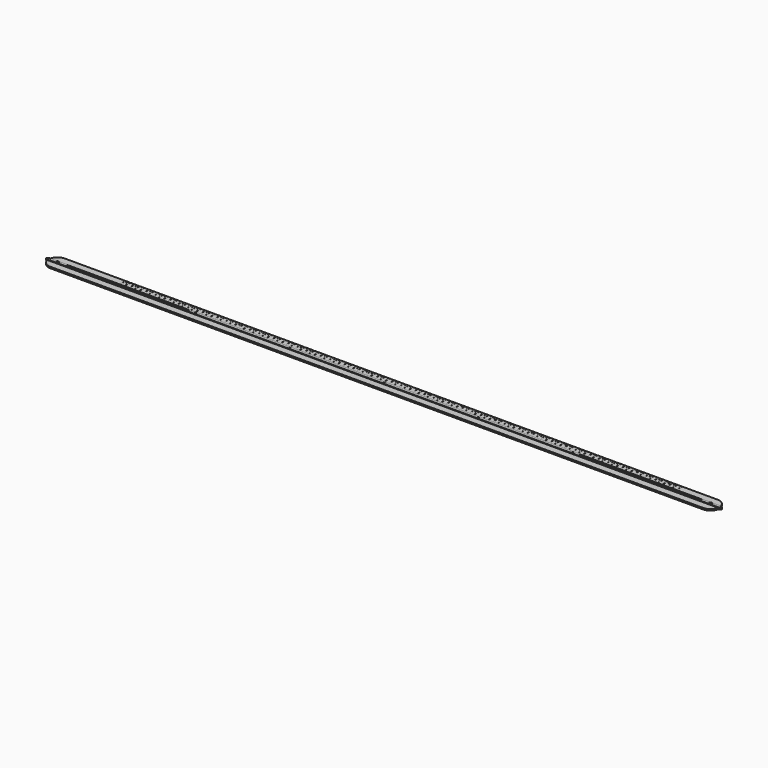
from build123d import *

# Parameters (mm, degrees)
F1_DEPTH       = 1280
F1_DEPTH_BACK  = 154
F3_R           = 3
F4_DEPTH       = 25
F6_DEPTH       = 25
F8_DEPTH       = 25
F9_R           = 1.5
F10_DEPTH      = 25
F12_DEPTH      = 0.25
F13_R          = 3
F14_DEPTH      = 3
F14_DEPTH_BACK = 2
F16_DEPTH      = 0.25


with BuildPart() as f1:
    # F0 (on Right) → F1 (new body, two sides)
    with BuildSketch(Plane.YZ) as f1_sk:
        Polygon((-19, 3), (-19, 0), (19, 0), (19, 3), (3.25, 3), (3, 4), (-3, 4), (-3.25, 3), align=None)
    extrude(amount=F1_DEPTH)
    extrude(f1_sk.sketch, amount=-F1_DEPTH_BACK)

    # F3 (on Top) → F4 (cut)
    with BuildSketch(Plane.XY):
        with Locations((-129, 0)):
            Circle(F3_R)
        with Locations((1255, 0)):
            Circle(F3_R)
    extrude(amount=F4_DEPTH, mode=Mode.SUBTRACT)

    # F5 (on Top) → F6 (cut)
    with BuildSketch(Plane.XY):
        with BuildLine():
            ThreePointArc((-108, 2), (-110, 0), (-108, -2))
            Line((-108, -2), (147, -2))
            ThreePointArc((147, -2), (149, 0), (147, 2))
            Line((147, 2), (-108, 2))
        make_face()
        with BuildLine():
            Line((979, -2), (1234, -2))
            ThreePointArc((1234, -2), (1236, 0), (1234, 2))
            Line((1234, 2), (979, 2))
            ThreePointArc((979, 2), (977, 0), (979, -2))
        make_face()
    extrude(amount=F6_DEPTH, mode=Mode.SUBTRACT)

    # F7 (on Top) → F8 (cut)
    with BuildSketch(Plane.XY):
        with BuildLine():
            ThreePointArc((-147.541794, 4.147515), (-140.878493, 14.829073), (-129, 19))
            Line((-129, 19), (-129, 22.257365))
            Line((-129, 22.257365), (-158.983856, 22.257365))
            Line((-158.983856, 22.257365), (-158.983856, -20.880738))
            Line((-158.983856, -20.880738), (-129, -20.880738))
            Line((-129, -20.880738), (-129, -19))
            ThreePointArc((-129, -19), (-140.878493, -14.829073), (-147.541794, -4.147515))
            ThreePointArc((-147.541794, -4.147515), (-147.909477, -3.363163), (-148.574334, -2.807858))
            Line((-148.574334, -2.807858), (-152.283875, -0.888119))
            ThreePointArc((-152.283875, -0.888119), (-152.824261, 0), (-152.283875, 0.888119))
            Line((-152.283875, 0.888119), (-148.574334, 2.807858))
            ThreePointArc((-148.574334, 2.807858), (-147.909477, 3.363163), (-147.541794, 4.147515))
        make_face()
        with BuildLine():
            Line((1274.574334, 2.807858), (1278.283875, 0.888119))
            ThreePointArc((1278.283875, 0.888119), (1278.824261, 0), (1278.283875, -0.888119))
            Line((1278.283875, -0.888119), (1274.574334, -2.807858))
            ThreePointArc((1274.574334, -2.807858), (1273.909477, -3.363163), (1273.541794, -4.147515))
            ThreePointArc((1273.541794, -4.147515), (1266.878493, -14.829073), (1255, -19))
            Line((1255, -19), (1255, -20.880738))
            Line((1255, -20.880738), (1284.983856, -20.880738))
            Line((1284.983856, -20.880738), (1284.983856, 22.257365))
            Line((1284.983856, 22.257365), (1255, 22.257365))
            Line((1255, 22.257365), (1255, 19))
            ThreePointArc((1255, 19), (1266.878493, 14.829073), (1273.541794, 4.147515))
            ThreePointArc((1273.541794, 4.147515), (1273.909477, 3.363163), (1274.574334, 2.807858))
        make_face()
    extrude(amount=F8_DEPTH, mode=Mode.SUBTRACT)

    # F9 (on Top) → F10 (cut)
    with BuildSketch(Plane.XY):
        with Locations((563, 0)):
            Circle(F9_R)
        with Locations((763, 0)):
            Circle(F9_R)
        with Locations((963, 0)):
            Circle(F9_R)
        with Locations((363, 0)):
            Circle(F9_R)
        with Locations((163, 0)):
            Circle(F9_R)
    extrude(amount=F10_DEPTH, mode=Mode.SUBTRACT)

    # F11 (on face) → F12 (cut)
    with BuildSketch(Plane.XY.offset(3)):
        with BuildLine():
            ThreePointArc((0.25, 19), (0, 19.25), (-0.25, 19))
            Line((-0.25, 19), (-0.25, 7))
            ThreePointArc((-0.25, 7), (0, 6.75), (0.25, 7))
            Line((0.25, 7), (0.25, 19))
        make_face()
        with BuildLine():
            Line((10.25, 7), (10.25, 19))
            ThreePointArc((10.25, 19), (10, 19.25), (9.75, 19))
            Line((9.75, 19), (9.75, 7))
            ThreePointArc((9.75, 7), (10, 6.75), (10.25, 7))
        make_face()
        with BuildLine():
            Line((20.25, 7), (20.25, 19))
            ThreePointArc((20.25, 19), (20, 19.25), (19.75, 19))
            Line((19.75, 19), (19.75, 7))
            ThreePointArc((19.75, 7), (20, 6.75), (20.25, 7))
        make_face()
        with BuildLine():
            Line((30.25, 7), (30.25, 19))
            ThreePointArc((30.25, 19), (30, 19.25), (29.75, 19))
            Line((29.75, 19), (29.75, 7))
            ThreePointArc((29.75, 7), (30, 6.75), (30.25, 7))
        make_face()
        with BuildLine():
            Line((40.25, 7), (40.25, 19))
            ThreePointArc((40.25, 19), (40, 19.25), (39.75, 19))
            Line((39.75, 19), (39.75, 7))
            ThreePointArc((39.75, 7), (40, 6.75), (40.25, 7))
        make_face()
        with BuildLine():
            Line((50.25, 7), (50.25, 19))
            ThreePointArc((50.25, 19), (50, 19.25), (49.75, 19))
            Line((49.75, 19), (49.75, 7))
            ThreePointArc((49.75, 7), (50, 6.75), (50.25, 7))
        make_face()
        with BuildLine():
            Line((60.25, 7), (60.25, 19))
            ThreePointArc((60.25, 19), (60, 19.25), (59.75, 19))
            Line((59.75, 19), (59.75, 7))
            ThreePointArc((59.75, 7), (60, 6.75), (60.25, 7))
        make_face()
        with BuildLine():
            Line((70.25, 7), (70.25, 19))
            ThreePointArc((70.25, 19), (70, 19.25), (69.75, 19))
            Line((69.75, 19), (69.75, 7))
            ThreePointArc((69.75, 7), (70, 6.75), (70.25, 7))
        make_face()
        with BuildLine():
            Line((80.25, 7), (80.25, 19))
            ThreePointArc((80.25, 19), (80, 19.25), (79.75, 19))
            Line((79.75, 19), (79.75, 7))
            ThreePointArc((79.75, 7), (80, 6.75), (80.25, 7))
        make_face()
        with BuildLine():
            Line((90.25, 7), (90.25, 19))
            ThreePointArc((90.25, 19), (90, 19.25), (89.75, 19))
            Line((89.75, 19), (89.75, 7))
            ThreePointArc((89.75, 7), (90, 6.75), (90.25, 7))
        make_face()
        with BuildLine():
            Line((100.25, 7), (100.25, 19))
            ThreePointArc((100.25, 19), (100, 19.25), (99.75, 19))
            Line((99.75, 19), (99.75, 7))
            ThreePointArc((99.75, 7), (100, 6.75), (100.25, 7))
        make_face()
        with BuildLine():
            Line((110.25, 7), (110.25, 19))
            ThreePointArc((110.25, 19), (110, 19.25), (109.75, 19))
            Line((109.75, 19), (109.75, 7))
            ThreePointArc((109.75, 7), (110, 6.75), (110.25, 7))
        make_face()
        with BuildLine():
            Line((120.25, 7), (120.25, 19))
            ThreePointArc((120.25, 19), (120, 19.25), (119.75, 19))
            Line((119.75, 19), (119.75, 7))
            ThreePointArc((119.75, 7), (120, 6.75), (120.25, 7))
        make_face()
        with BuildLine():
            Line((130.25, 7), (130.25, 19))
            ThreePointArc((130.25, 19), (130, 19.25), (129.75, 19))
            Line((129.75, 19), (129.75, 7))
            ThreePointArc((129.75, 7), (130, 6.75), (130.25, 7))
        make_face()
        with BuildLine():
            Line((140.25, 7), (140.25, 19))
            ThreePointArc((140.25, 19), (140, 19.25), (139.75, 19))
            Line((139.75, 19), (139.75, 7))
            ThreePointArc((139.75, 7), (140, 6.75), (140.25, 7))
        make_face()
        with BuildLine():
            Line((150.25, 7), (150.25, 19))
            ThreePointArc((150.25, 19), (150, 19.25), (149.75, 19))
            Line((149.75, 19), (149.75, 7))
            ThreePointArc((149.75, 7), (150, 6.75), (150.25, 7))
        make_face()
        with BuildLine():
            Line((160.25, 7), (160.25, 19))
            ThreePointArc((160.25, 19), (160, 19.25), (159.75, 19))
            Line((159.75, 19), (159.75, 7))
            ThreePointArc((159.75, 7), (160, 6.75), (160.25, 7))
        make_face()
        with BuildLine():
            Line((170.25, 7), (170.25, 19))
            ThreePointArc((170.25, 19), (170, 19.25), (169.75, 19))
            Line((169.75, 19), (169.75, 7))
            ThreePointArc((169.75, 7), (170, 6.75), (170.25, 7))
        make_face()
        with BuildLine():
            Line((180.25, 7), (180.25, 19))
            ThreePointArc((180.25, 19), (180, 19.25), (179.75, 19))
            Line((179.75, 19), (179.75, 7))
            ThreePointArc((179.75, 7), (180, 6.75), (180.25, 7))
        make_face()
        with BuildLine():
            Line((190.25, 7), (190.25, 19))
            ThreePointArc((190.25, 19), (190, 19.25), (189.75, 19))
            Line((189.75, 19), (189.75, 7))
            ThreePointArc((189.75, 7), (190, 6.75), (190.25, 7))
        make_face()
        with BuildLine():
            Line((200.25, 7), (200.25, 19))
            ThreePointArc((200.25, 19), (200, 19.25), (199.75, 19))
            Line((199.75, 19), (199.75, 7))
            ThreePointArc((199.75, 7), (200, 6.75), (200.25, 7))
        make_face()
        with BuildLine():
            Line((210.25, 7), (210.25, 19))
            ThreePointArc((210.25, 19), (210, 19.25), (209.75, 19))
            Line((209.75, 19), (209.75, 7))
            ThreePointArc((209.75, 7), (210, 6.75), (210.25, 7))
        make_face()
        with BuildLine():
            Line((220.25, 7), (220.25, 19))
            ThreePointArc((220.25, 19), (220, 19.25), (219.75, 19))
            Line((219.75, 19), (219.75, 7))
            ThreePointArc((219.75, 7), (220, 6.75), (220.25, 7))
        make_face()
        with BuildLine():
            Line((230.25, 7), (230.25, 19))
            ThreePointArc((230.25, 19), (230, 19.25), (229.75, 19))
            Line((229.75, 19), (229.75, 7))
            ThreePointArc((229.75, 7), (230, 6.75), (230.25, 7))
        make_face()
        with BuildLine():
            Line((240.25, 7), (240.25, 19))
            ThreePointArc((240.25, 19), (240, 19.25), (239.75, 19))
            Line((239.75, 19), (239.75, 7))
            ThreePointArc((239.75, 7), (240, 6.75), (240.25, 7))
        make_face()
        with BuildLine():
            Line((250.25, 7), (250.25, 19))
            ThreePointArc((250.25, 19), (250, 19.25), (249.75, 19))
            Line((249.75, 19), (249.75, 7))
            ThreePointArc((249.75, 7), (250, 6.75), (250.25, 7))
        make_face()
        with BuildLine():
            Line((260.25, 7), (260.25, 19))
            ThreePointArc((260.25, 19), (260, 19.25), (259.75, 19))
            Line((259.75, 19), (259.75, 7))
            ThreePointArc((259.75, 7), (260, 6.75), (260.25, 7))
        make_face()
        with BuildLine():
            Line((270.25, 7), (270.25, 19))
            ThreePointArc((270.25, 19), (270, 19.25), (269.75, 19))
            Line((269.75, 19), (269.75, 7))
            ThreePointArc((269.75, 7), (270, 6.75), (270.25, 7))
        make_face()
        with BuildLine():
            Line((280.25, 7), (280.25, 19))
            ThreePointArc((280.25, 19), (280, 19.25), (279.75, 19))
            Line((279.75, 19), (279.75, 7))
            ThreePointArc((279.75, 7), (280, 6.75), (280.25, 7))
        make_face()
        with BuildLine():
            Line((290.25, 7), (290.25, 19))
            ThreePointArc((290.25, 19), (290, 19.25), (289.75, 19))
            Line((289.75, 19), (289.75, 7))
            ThreePointArc((289.75, 7), (290, 6.75), (290.25, 7))
        make_face()
        with BuildLine():
            Line((300.25, 7), (300.25, 19))
            ThreePointArc((300.25, 19), (300, 19.25), (299.75, 19))
            Line((299.75, 19), (299.75, 7))
            ThreePointArc((299.75, 7), (300, 6.75), (300.25, 7))
        make_face()
        with BuildLine():
            Line((310.25, 7), (310.25, 19))
            ThreePointArc((310.25, 19), (310, 19.25), (309.75, 19))
            Line((309.75, 19), (309.75, 7))
            ThreePointArc((309.75, 7), (310, 6.75), (310.25, 7))
        make_face()
        with BuildLine():
            Line((320.25, 7), (320.25, 19))
            ThreePointArc((320.25, 19), (320, 19.25), (319.75, 19))
            Line((319.75, 19), (319.75, 7))
            ThreePointArc((319.75, 7), (320, 6.75), (320.25, 7))
        make_face()
        with BuildLine():
            Line((330.25, 7), (330.25, 19))
            ThreePointArc((330.25, 19), (330, 19.25), (329.75, 19))
            Line((329.75, 19), (329.75, 7))
            ThreePointArc((329.75, 7), (330, 6.75), (330.25, 7))
        make_face()
        with BuildLine():
            Line((340.25, 7), (340.25, 19))
            ThreePointArc((340.25, 19), (340, 19.25), (339.75, 19))
            Line((339.75, 19), (339.75, 7))
            ThreePointArc((339.75, 7), (340, 6.75), (340.25, 7))
        make_face()
        with BuildLine():
            Line((350.25, 7), (350.25, 19))
            ThreePointArc((350.25, 19), (350, 19.25), (349.75, 19))
            Line((349.75, 19), (349.75, 7))
            ThreePointArc((349.75, 7), (350, 6.75), (350.25, 7))
        make_face()
        with BuildLine():
            Line((360.25, 7), (360.25, 19))
            ThreePointArc((360.25, 19), (360, 19.25), (359.75, 19))
            Line((359.75, 19), (359.75, 7))
            ThreePointArc((359.75, 7), (360, 6.75), (360.25, 7))
        make_face()
        with BuildLine():
            Line((370.25, 7), (370.25, 19))
            ThreePointArc((370.25, 19), (370, 19.25), (369.75, 19))
            Line((369.75, 19), (369.75, 7))
            ThreePointArc((369.75, 7), (370, 6.75), (370.25, 7))
        make_face()
        with BuildLine():
            Line((380.25, 7), (380.25, 19))
            ThreePointArc((380.25, 19), (380, 19.25), (379.75, 19))
            Line((379.75, 19), (379.75, 7))
            ThreePointArc((379.75, 7), (380, 6.75), (380.25, 7))
        make_face()
        with BuildLine():
            Line((390.25, 7), (390.25, 19))
            ThreePointArc((390.25, 19), (390, 19.25), (389.75, 19))
            Line((389.75, 19), (389.75, 7))
            ThreePointArc((389.75, 7), (390, 6.75), (390.25, 7))
        make_face()
        with BuildLine():
            Line((400.25, 7), (400.25, 19))
            ThreePointArc((400.25, 19), (400, 19.25), (399.75, 19))
            Line((399.75, 19), (399.75, 7))
            ThreePointArc((399.75, 7), (400, 6.75), (400.25, 7))
        make_face()
        with BuildLine():
            Line((410.25, 7), (410.25, 19))
            ThreePointArc((410.25, 19), (410, 19.25), (409.75, 19))
            Line((409.75, 19), (409.75, 7))
            ThreePointArc((409.75, 7), (410, 6.75), (410.25, 7))
        make_face()
        with BuildLine():
            Line((420.25, 7), (420.25, 19))
            ThreePointArc((420.25, 19), (420, 19.25), (419.75, 19))
            Line((419.75, 19), (419.75, 7))
            ThreePointArc((419.75, 7), (420, 6.75), (420.25, 7))
        make_face()
        with BuildLine():
            Line((430.25, 7), (430.25, 19))
            ThreePointArc((430.25, 19), (430, 19.25), (429.75, 19))
            Line((429.75, 19), (429.75, 7))
            ThreePointArc((429.75, 7), (430, 6.75), (430.25, 7))
        make_face()
        with BuildLine():
            Line((440.25, 7), (440.25, 19))
            ThreePointArc((440.25, 19), (440, 19.25), (439.75, 19))
            Line((439.75, 19), (439.75, 7))
            ThreePointArc((439.75, 7), (440, 6.75), (440.25, 7))
        make_face()
        with BuildLine():
            Line((450.25, 7), (450.25, 19))
            ThreePointArc((450.25, 19), (450, 19.25), (449.75, 19))
            Line((449.75, 19), (449.75, 7))
            ThreePointArc((449.75, 7), (450, 6.75), (450.25, 7))
        make_face()
        with BuildLine():
            Line((460.25, 7), (460.25, 19))
            ThreePointArc((460.25, 19), (460, 19.25), (459.75, 19))
            Line((459.75, 19), (459.75, 7))
            ThreePointArc((459.75, 7), (460, 6.75), (460.25, 7))
        make_face()
        with BuildLine():
            Line((470.25, 7), (470.25, 19))
            ThreePointArc((470.25, 19), (470, 19.25), (469.75, 19))
            Line((469.75, 19), (469.75, 7))
            ThreePointArc((469.75, 7), (470, 6.75), (470.25, 7))
        make_face()
        with BuildLine():
            Line((480.25, 7), (480.25, 19))
            ThreePointArc((480.25, 19), (480, 19.25), (479.75, 19))
            Line((479.75, 19), (479.75, 7))
            ThreePointArc((479.75, 7), (480, 6.75), (480.25, 7))
        make_face()
        with BuildLine():
            Line((490.25, 7), (490.25, 19))
            ThreePointArc((490.25, 19), (490, 19.25), (489.75, 19))
            Line((489.75, 19), (489.75, 7))
            ThreePointArc((489.75, 7), (490, 6.75), (490.25, 7))
        make_face()
        with BuildLine():
            Line((500.25, 7), (500.25, 19))
            ThreePointArc((500.25, 19), (500, 19.25), (499.75, 19))
            Line((499.75, 19), (499.75, 7))
            ThreePointArc((499.75, 7), (500, 6.75), (500.25, 7))
        make_face()
        with BuildLine():
            Line((510.25, 7), (510.25, 19))
            ThreePointArc((510.25, 19), (510, 19.25), (509.75, 19))
            Line((509.75, 19), (509.75, 7))
            ThreePointArc((509.75, 7), (510, 6.75), (510.25, 7))
        make_face()
        with BuildLine():
            Line((520.25, 7), (520.25, 19))
            ThreePointArc((520.25, 19), (520, 19.25), (519.75, 19))
            Line((519.75, 19), (519.75, 7))
            ThreePointArc((519.75, 7), (520, 6.75), (520.25, 7))
        make_face()
        with BuildLine():
            Line((530.25, 7), (530.25, 19))
            ThreePointArc((530.25, 19), (530, 19.25), (529.75, 19))
            Line((529.75, 19), (529.75, 7))
            ThreePointArc((529.75, 7), (530, 6.75), (530.25, 7))
        make_face()
        with BuildLine():
            Line((540.25, 7), (540.25, 19))
            ThreePointArc((540.25, 19), (540, 19.25), (539.75, 19))
            Line((539.75, 19), (539.75, 7))
            ThreePointArc((539.75, 7), (540, 6.75), (540.25, 7))
        make_face()
        with BuildLine():
            Line((550.25, 7), (550.25, 19))
            ThreePointArc((550.25, 19), (550, 19.25), (549.75, 19))
            Line((549.75, 19), (549.75, 7))
            ThreePointArc((549.75, 7), (550, 6.75), (550.25, 7))
        make_face()
        with BuildLine():
            Line((560.25, 7), (560.25, 19))
            ThreePointArc((560.25, 19), (560, 19.25), (559.75, 19))
            Line((559.75, 19), (559.75, 7))
            ThreePointArc((559.75, 7), (560, 6.75), (560.25, 7))
        make_face()
        with BuildLine():
            Line((570.25, 7), (570.25, 19))
            ThreePointArc((570.25, 19), (570, 19.25), (569.75, 19))
            Line((569.75, 19), (569.75, 7))
            ThreePointArc((569.75, 7), (570, 6.75), (570.25, 7))
        make_face()
        with BuildLine():
            Line((580.25, 7), (580.25, 19))
            ThreePointArc((580.25, 19), (580, 19.25), (579.75, 19))
            Line((579.75, 19), (579.75, 7))
            ThreePointArc((579.75, 7), (580, 6.75), (580.25, 7))
        make_face()
        with BuildLine():
            Line((590.25, 7), (590.25, 19))
            ThreePointArc((590.25, 19), (590, 19.25), (589.75, 19))
            Line((589.75, 19), (589.75, 7))
            ThreePointArc((589.75, 7), (590, 6.75), (590.25, 7))
        make_face()
        with BuildLine():
            Line((600.25, 7), (600.25, 19))
            ThreePointArc((600.25, 19), (600, 19.25), (599.75, 19))
            Line((599.75, 19), (599.75, 7))
            ThreePointArc((599.75, 7), (600, 6.75), (600.25, 7))
        make_face()
        with BuildLine():
            Line((610.25, 7), (610.25, 19))
            ThreePointArc((610.25, 19), (610, 19.25), (609.75, 19))
            Line((609.75, 19), (609.75, 7))
            ThreePointArc((609.75, 7), (610, 6.75), (610.25, 7))
        make_face()
        with BuildLine():
            Line((620.25, 7), (620.25, 19))
            ThreePointArc((620.25, 19), (620, 19.25), (619.75, 19))
            Line((619.75, 19), (619.75, 7))
            ThreePointArc((619.75, 7), (620, 6.75), (620.25, 7))
        make_face()
        with BuildLine():
            Line((630.25, 7), (630.25, 19))
            ThreePointArc((630.25, 19), (630, 19.25), (629.75, 19))
            Line((629.75, 19), (629.75, 7))
            ThreePointArc((629.75, 7), (630, 6.75), (630.25, 7))
        make_face()
        with BuildLine():
            Line((640.25, 7), (640.25, 19))
            ThreePointArc((640.25, 19), (640, 19.25), (639.75, 19))
            Line((639.75, 19), (639.75, 7))
            ThreePointArc((639.75, 7), (640, 6.75), (640.25, 7))
        make_face()
        with BuildLine():
            Line((650.25, 7), (650.25, 19))
            ThreePointArc((650.25, 19), (650, 19.25), (649.75, 19))
            Line((649.75, 19), (649.75, 7))
            ThreePointArc((649.75, 7), (650, 6.75), (650.25, 7))
        make_face()
        with BuildLine():
            Line((660.25, 7), (660.25, 19))
            ThreePointArc((660.25, 19), (660, 19.25), (659.75, 19))
            Line((659.75, 19), (659.75, 7))
            ThreePointArc((659.75, 7), (660, 6.75), (660.25, 7))
        make_face()
        with BuildLine():
            Line((670.25, 7), (670.25, 19))
            ThreePointArc((670.25, 19), (670, 19.25), (669.75, 19))
            Line((669.75, 19), (669.75, 7))
            ThreePointArc((669.75, 7), (670, 6.75), (670.25, 7))
        make_face()
        with BuildLine():
            Line((680.25, 7), (680.25, 19))
            ThreePointArc((680.25, 19), (680, 19.25), (679.75, 19))
            Line((679.75, 19), (679.75, 7))
            ThreePointArc((679.75, 7), (680, 6.75), (680.25, 7))
        make_face()
        with BuildLine():
            Line((690.25, 7), (690.25, 19))
            ThreePointArc((690.25, 19), (690, 19.25), (689.75, 19))
            Line((689.75, 19), (689.75, 7))
            ThreePointArc((689.75, 7), (690, 6.75), (690.25, 7))
        make_face()
        with BuildLine():
            Line((700.25, 7), (700.25, 19))
            ThreePointArc((700.25, 19), (700, 19.25), (699.75, 19))
            Line((699.75, 19), (699.75, 7))
            ThreePointArc((699.75, 7), (700, 6.75), (700.25, 7))
        make_face()
        with BuildLine():
            Line((710.25, 7), (710.25, 19))
            ThreePointArc((710.25, 19), (710, 19.25), (709.75, 19))
            Line((709.75, 19), (709.75, 7))
            ThreePointArc((709.75, 7), (710, 6.75), (710.25, 7))
        make_face()
        with BuildLine():
            Line((720.25, 7), (720.25, 19))
            ThreePointArc((720.25, 19), (720, 19.25), (719.75, 19))
            Line((719.75, 19), (719.75, 7))
            ThreePointArc((719.75, 7), (720, 6.75), (720.25, 7))
        make_face()
        with BuildLine():
            Line((730.25, 7), (730.25, 19))
            ThreePointArc((730.25, 19), (730, 19.25), (729.75, 19))
            Line((729.75, 19), (729.75, 7))
            ThreePointArc((729.75, 7), (730, 6.75), (730.25, 7))
        make_face()
        with BuildLine():
            Line((740.25, 7), (740.25, 19))
            ThreePointArc((740.25, 19), (740, 19.25), (739.75, 19))
            Line((739.75, 19), (739.75, 7))
            ThreePointArc((739.75, 7), (740, 6.75), (740.25, 7))
        make_face()
        with BuildLine():
            Line((750.25, 7), (750.25, 19))
            ThreePointArc((750.25, 19), (750, 19.25), (749.75, 19))
            Line((749.75, 19), (749.75, 7))
            ThreePointArc((749.75, 7), (750, 6.75), (750.25, 7))
        make_face()
        with BuildLine():
            Line((760.25, 7), (760.25, 19))
            ThreePointArc((760.25, 19), (760, 19.25), (759.75, 19))
            Line((759.75, 19), (759.75, 7))
            ThreePointArc((759.75, 7), (760, 6.75), (760.25, 7))
        make_face()
        with BuildLine():
            Line((770.25, 7), (770.25, 19))
            ThreePointArc((770.25, 19), (770, 19.25), (769.75, 19))
            Line((769.75, 19), (769.75, 7))
            ThreePointArc((769.75, 7), (770, 6.75), (770.25, 7))
        make_face()
        with BuildLine():
            Line((780.25, 7), (780.25, 19))
            ThreePointArc((780.25, 19), (780, 19.25), (779.75, 19))
            Line((779.75, 19), (779.75, 7))
            ThreePointArc((779.75, 7), (780, 6.75), (780.25, 7))
        make_face()
        with BuildLine():
            Line((790.25, 7), (790.25, 19))
            ThreePointArc((790.25, 19), (790, 19.25), (789.75, 19))
            Line((789.75, 19), (789.75, 7))
            ThreePointArc((789.75, 7), (790, 6.75), (790.25, 7))
        make_face()
        with BuildLine():
            Line((800.25, 7), (800.25, 19))
            ThreePointArc((800.25, 19), (800, 19.25), (799.75, 19))
            Line((799.75, 19), (799.75, 7))
            ThreePointArc((799.75, 7), (800, 6.75), (800.25, 7))
        make_face()
        with BuildLine():
            Line((810.25, 7), (810.25, 19))
            ThreePointArc((810.25, 19), (810, 19.25), (809.75, 19))
            Line((809.75, 19), (809.75, 7))
            ThreePointArc((809.75, 7), (810, 6.75), (810.25, 7))
        make_face()
        with BuildLine():
            Line((820.25, 7), (820.25, 19))
            ThreePointArc((820.25, 19), (820, 19.25), (819.75, 19))
            Line((819.75, 19), (819.75, 7))
            ThreePointArc((819.75, 7), (820, 6.75), (820.25, 7))
        make_face()
        with BuildLine():
            Line((830.25, 7), (830.25, 19))
            ThreePointArc((830.25, 19), (830, 19.25), (829.75, 19))
            Line((829.75, 19), (829.75, 7))
            ThreePointArc((829.75, 7), (830, 6.75), (830.25, 7))
        make_face()
        with BuildLine():
            Line((840.25, 7), (840.25, 19))
            ThreePointArc((840.25, 19), (840, 19.25), (839.75, 19))
            Line((839.75, 19), (839.75, 7))
            ThreePointArc((839.75, 7), (840, 6.75), (840.25, 7))
        make_face()
        with BuildLine():
            Line((850.25, 7), (850.25, 19))
            ThreePointArc((850.25, 19), (850, 19.25), (849.75, 19))
            Line((849.75, 19), (849.75, 7))
            ThreePointArc((849.75, 7), (850, 6.75), (850.25, 7))
        make_face()
        with BuildLine():
            Line((860.25, 7), (860.25, 19))
            ThreePointArc((860.25, 19), (860, 19.25), (859.75, 19))
            Line((859.75, 19), (859.75, 7))
            ThreePointArc((859.75, 7), (860, 6.75), (860.25, 7))
        make_face()
        with BuildLine():
            Line((870.25, 7), (870.25, 19))
            ThreePointArc((870.25, 19), (870, 19.25), (869.75, 19))
            Line((869.75, 19), (869.75, 7))
            ThreePointArc((869.75, 7), (870, 6.75), (870.25, 7))
        make_face()
        with BuildLine():
            Line((880.25, 7), (880.25, 19))
            ThreePointArc((880.25, 19), (880, 19.25), (879.75, 19))
            Line((879.75, 19), (879.75, 7))
            ThreePointArc((879.75, 7), (880, 6.75), (880.25, 7))
        make_face()
        with BuildLine():
            Line((890.25, 7), (890.25, 19))
            ThreePointArc((890.25, 19), (890, 19.25), (889.75, 19))
            Line((889.75, 19), (889.75, 7))
            ThreePointArc((889.75, 7), (890, 6.75), (890.25, 7))
        make_face()
        with BuildLine():
            Line((900.25, 7), (900.25, 19))
            ThreePointArc((900.25, 19), (900, 19.25), (899.75, 19))
            Line((899.75, 19), (899.75, 7))
            ThreePointArc((899.75, 7), (900, 6.75), (900.25, 7))
        make_face()
        with BuildLine():
            Line((910.25, 7), (910.25, 19))
            ThreePointArc((910.25, 19), (910, 19.25), (909.75, 19))
            Line((909.75, 19), (909.75, 7))
            ThreePointArc((909.75, 7), (910, 6.75), (910.25, 7))
        make_face()
        with BuildLine():
            Line((920.25, 7), (920.25, 19))
            ThreePointArc((920.25, 19), (920, 19.25), (919.75, 19))
            Line((919.75, 19), (919.75, 7))
            ThreePointArc((919.75, 7), (920, 6.75), (920.25, 7))
        make_face()
        with BuildLine():
            Line((930.25, 7), (930.25, 19))
            ThreePointArc((930.25, 19), (930, 19.25), (929.75, 19))
            Line((929.75, 19), (929.75, 7))
            ThreePointArc((929.75, 7), (930, 6.75), (930.25, 7))
        make_face()
        with BuildLine():
            Line((940.25, 7), (940.25, 19))
            ThreePointArc((940.25, 19), (940, 19.25), (939.75, 19))
            Line((939.75, 19), (939.75, 7))
            ThreePointArc((939.75, 7), (940, 6.75), (940.25, 7))
        make_face()
        with BuildLine():
            Line((950.25, 7), (950.25, 19))
            ThreePointArc((950.25, 19), (950, 19.25), (949.75, 19))
            Line((949.75, 19), (949.75, 7))
            ThreePointArc((949.75, 7), (950, 6.75), (950.25, 7))
        make_face()
        with BuildLine():
            Line((960.25, 7), (960.25, 19))
            ThreePointArc((960.25, 19), (960, 19.25), (959.75, 19))
            Line((959.75, 19), (959.75, 7))
            ThreePointArc((959.75, 7), (960, 6.75), (960.25, 7))
        make_face()
        with BuildLine():
            Line((970.25, 7), (970.25, 19))
            ThreePointArc((970.25, 19), (970, 19.25), (969.75, 19))
            Line((969.75, 19), (969.75, 7))
            ThreePointArc((969.75, 7), (970, 6.75), (970.25, 7))
        make_face()
        with BuildLine():
            Line((980.25, 7), (980.25, 19))
            ThreePointArc((980.25, 19), (980, 19.25), (979.75, 19))
            Line((979.75, 19), (979.75, 7))
            ThreePointArc((979.75, 7), (980, 6.75), (980.25, 7))
        make_face()
        with BuildLine():
            Line((990.25, 7), (990.25, 19))
            ThreePointArc((990.25, 19), (990, 19.25), (989.75, 19))
            Line((989.75, 19), (989.75, 7))
            ThreePointArc((989.75, 7), (990, 6.75), (990.25, 7))
        make_face()
        with BuildLine():
            Line((1000.25, 7), (1000.25, 19))
            ThreePointArc((1000.25, 19), (1000, 19.25), (999.75, 19))
            Line((999.75, 19), (999.75, 7))
            ThreePointArc((999.75, 7), (1000, 6.75), (1000.25, 7))
        make_face()
        with BuildLine():
            Line((1010.25, 7), (1010.25, 19))
            ThreePointArc((1010.25, 19), (1010, 19.25), (1009.75, 19))
            Line((1009.75, 19), (1009.75, 7))
            ThreePointArc((1009.75, 7), (1010, 6.75), (1010.25, 7))
        make_face()
        with BuildLine():
            Line((1020.25, 7), (1020.25, 19))
            ThreePointArc((1020.25, 19), (1020, 19.25), (1019.75, 19))
            Line((1019.75, 19), (1019.75, 7))
            ThreePointArc((1019.75, 7), (1020, 6.75), (1020.25, 7))
        make_face()
        with BuildLine():
            Line((1030.25, 7), (1030.25, 19))
            ThreePointArc((1030.25, 19), (1030, 19.25), (1029.75, 19))
            Line((1029.75, 19), (1029.75, 7))
            ThreePointArc((1029.75, 7), (1030, 6.75), (1030.25, 7))
        make_face()
        with BuildLine():
            Line((1040.25, 7), (1040.25, 19))
            ThreePointArc((1040.25, 19), (1040, 19.25), (1039.75, 19))
            Line((1039.75, 19), (1039.75, 7))
            ThreePointArc((1039.75, 7), (1040, 6.75), (1040.25, 7))
        make_face()
        with BuildLine():
            Line((1050.25, 7), (1050.25, 19))
            ThreePointArc((1050.25, 19), (1050, 19.25), (1049.75, 19))
            Line((1049.75, 19), (1049.75, 7))
            ThreePointArc((1049.75, 7), (1050, 6.75), (1050.25, 7))
        make_face()
        with BuildLine():
            Line((1060.25, 7), (1060.25, 19))
            ThreePointArc((1060.25, 19), (1060, 19.25), (1059.75, 19))
            Line((1059.75, 19), (1059.75, 7))
            ThreePointArc((1059.75, 7), (1060, 6.75), (1060.25, 7))
        make_face()
        with BuildLine():
            Line((1070.25, 7), (1070.25, 19))
            ThreePointArc((1070.25, 19), (1070, 19.25), (1069.75, 19))
            Line((1069.75, 19), (1069.75, 7))
            ThreePointArc((1069.75, 7), (1070, 6.75), (1070.25, 7))
        make_face()
        with BuildLine():
            Line((1080.25, 7), (1080.25, 19))
            ThreePointArc((1080.25, 19), (1080, 19.25), (1079.75, 19))
            Line((1079.75, 19), (1079.75, 7))
            ThreePointArc((1079.75, 7), (1080, 6.75), (1080.25, 7))
        make_face()
        with BuildLine():
            Line((1090.25, 7), (1090.25, 19))
            ThreePointArc((1090.25, 19), (1090, 19.25), (1089.75, 19))
            Line((1089.75, 19), (1089.75, 7))
            ThreePointArc((1089.75, 7), (1090, 6.75), (1090.25, 7))
        make_face()
        with BuildLine():
            Line((1100.25, 7), (1100.25, 19))
            ThreePointArc((1100.25, 19), (1100, 19.25), (1099.75, 19))
            Line((1099.75, 19), (1099.75, 7))
            ThreePointArc((1099.75, 7), (1100, 6.75), (1100.25, 7))
        make_face()
        with BuildLine():
            Line((1110.25, 7), (1110.25, 19))
            ThreePointArc((1110.25, 19), (1110, 19.25), (1109.75, 19))
            Line((1109.75, 19), (1109.75, 7))
            ThreePointArc((1109.75, 7), (1110, 6.75), (1110.25, 7))
        make_face()
        with BuildLine():
            Line((1120.25, 7), (1120.25, 19))
            ThreePointArc((1120.25, 19), (1120, 19.25), (1119.75, 19))
            Line((1119.75, 19), (1119.75, 7))
            ThreePointArc((1119.75, 7), (1120, 6.75), (1120.25, 7))
        make_face()
        with BuildLine():
            Line((1130.25, 7), (1130.25, 19))
            ThreePointArc((1130.25, 19), (1130, 19.25), (1129.75, 19))
            Line((1129.75, 19), (1129.75, 7))
            ThreePointArc((1129.75, 7), (1130, 6.75), (1130.25, 7))
        make_face()
        with BuildLine():
            Line((1140.25, 7), (1140.25, 19))
            ThreePointArc((1140.25, 19), (1140, 19.25), (1139.75, 19))
            Line((1139.75, 19), (1139.75, 7))
            ThreePointArc((1139.75, 7), (1140, 6.75), (1140.25, 7))
        make_face()
        with BuildLine():
            Line((1150.25, 7), (1150.25, 19))
            ThreePointArc((1150.25, 19), (1150, 19.25), (1149.75, 19))
            Line((1149.75, 19), (1149.75, 7))
            ThreePointArc((1149.75, 7), (1150, 6.75), (1150.25, 7))
        make_face()
        with BuildLine():
            Line((1160.25, 7), (1160.25, 19))
            ThreePointArc((1160.25, 19), (1160, 19.25), (1159.75, 19))
            Line((1159.75, 19), (1159.75, 7))
            ThreePointArc((1159.75, 7), (1160, 6.75), (1160.25, 7))
        make_face()
        with BuildLine():
            Line((1170.25, 7), (1170.25, 19))
            ThreePointArc((1170.25, 19), (1170, 19.25), (1169.75, 19))
            Line((1169.75, 19), (1169.75, 7))
            ThreePointArc((1169.75, 7), (1170, 6.75), (1170.25, 7))
        make_face()
        with BuildLine():
            Line((1180.25, 7), (1180.25, 19))
            ThreePointArc((1180.25, 19), (1180, 19.25), (1179.75, 19))
            Line((1179.75, 19), (1179.75, 7))
            ThreePointArc((1179.75, 7), (1180, 6.75), (1180.25, 7))
        make_face()
    extrude(amount=-F12_DEPTH, mode=Mode.SUBTRACT)

    # F13 (on face) → F14 (join, two sides)
    with BuildSketch(Plane(origin=(0, 0, 0), x_dir=(1, 0, 0), z_dir=(0, 0, -1))) as f14_sk:
        with Locations((-129, 0)):
            Circle(F13_R)
    extrude(amount=F14_DEPTH)
    extrude(f14_sk.sketch, amount=-F14_DEPTH_BACK)

    # F15 (on face) → F16 (cut)
    with BuildSketch(Plane.XY.offset(3)):
        with BuildLine():
            ThreePointArc((5.125, 19), (5, 19.125), (4.875, 19))
            Line((4.875, 19), (4.875, 14))
            ThreePointArc((4.875, 14), (5, 13.875), (5.125, 14))
            Line((5.125, 14), (5.125, 19))
        make_face()
        with BuildLine():
            ThreePointArc((15.125, 19), (15, 19.125), (14.875, 19))
            Line((14.875, 19), (14.875, 14))
            ThreePointArc((14.875, 14), (15, 13.875), (15.125, 14))
            Line((15.125, 14), (15.125, 19))
        make_face()
        with BuildLine():
            ThreePointArc((25.125, 19), (25, 19.125), (24.875, 19))
            Line((24.875, 19), (24.875, 14))
            ThreePointArc((24.875, 14), (25, 13.875), (25.125, 14))
            Line((25.125, 14), (25.125, 19))
        make_face()
        with BuildLine():
            ThreePointArc((35.125, 19), (35, 19.125), (34.875, 19))
            Line((34.875, 19), (34.875, 14))
            ThreePointArc((34.875, 14), (35, 13.875), (35.125, 14))
            Line((35.125, 14), (35.125, 19))
        make_face()
        with BuildLine():
            ThreePointArc((45.125, 19), (45, 19.125), (44.875, 19))
            Line((44.875, 19), (44.875, 14))
            ThreePointArc((44.875, 14), (45, 13.875), (45.125, 14))
            Line((45.125, 14), (45.125, 19))
        make_face()
        with BuildLine():
            ThreePointArc((55.125, 19), (55, 19.125), (54.875, 19))
            Line((54.875, 19), (54.875, 14))
            ThreePointArc((54.875, 14), (55, 13.875), (55.125, 14))
            Line((55.125, 14), (55.125, 19))
        make_face()
        with BuildLine():
            ThreePointArc((65.125, 19), (65, 19.125), (64.875, 19))
            Line((64.875, 19), (64.875, 14))
            ThreePointArc((64.875, 14), (65, 13.875), (65.125, 14))
            Line((65.125, 14), (65.125, 19))
        make_face()
        with BuildLine():
            ThreePointArc((75.125, 19), (75, 19.125), (74.875, 19))
            Line((74.875, 19), (74.875, 14))
            ThreePointArc((74.875, 14), (75, 13.875), (75.125, 14))
            Line((75.125, 14), (75.125, 19))
        make_face()
        with BuildLine():
            ThreePointArc((85.125, 19), (85, 19.125), (84.875, 19))
            Line((84.875, 19), (84.875, 14))
            ThreePointArc((84.875, 14), (85, 13.875), (85.125, 14))
            Line((85.125, 14), (85.125, 19))
        make_face()
        with BuildLine():
            ThreePointArc((95.125, 19), (95, 19.125), (94.875, 19))
            Line((94.875, 19), (94.875, 14))
            ThreePointArc((94.875, 14), (95, 13.875), (95.125, 14))
            Line((95.125, 14), (95.125, 19))
        make_face()
        with BuildLine():
            ThreePointArc((105.125, 19), (105, 19.125), (104.875, 19))
            Line((104.875, 19), (104.875, 14))
            ThreePointArc((104.875, 14), (105, 13.875), (105.125, 14))
            Line((105.125, 14), (105.125, 19))
        make_face()
        with BuildLine():
            ThreePointArc((115.125, 19), (115, 19.125), (114.875, 19))
            Line((114.875, 19), (114.875, 14))
            ThreePointArc((114.875, 14), (115, 13.875), (115.125, 14))
            Line((115.125, 14), (115.125, 19))
        make_face()
        with BuildLine():
            ThreePointArc((125.125, 19), (125, 19.125), (124.875, 19))
            Line((124.875, 19), (124.875, 14))
            ThreePointArc((124.875, 14), (125, 13.875), (125.125, 14))
            Line((125.125, 14), (125.125, 19))
        make_face()
        with BuildLine():
            ThreePointArc((135.125, 19), (135, 19.125), (134.875, 19))
            Line((134.875, 19), (134.875, 14))
            ThreePointArc((134.875, 14), (135, 13.875), (135.125, 14))
            Line((135.125, 14), (135.125, 19))
        make_face()
        with BuildLine():
            ThreePointArc((145.125, 19), (145, 19.125), (144.875, 19))
            Line((144.875, 19), (144.875, 14))
            ThreePointArc((144.875, 14), (145, 13.875), (145.125, 14))
            Line((145.125, 14), (145.125, 19))
        make_face()
        with BuildLine():
            ThreePointArc((155.125, 19), (155, 19.125), (154.875, 19))
            Line((154.875, 19), (154.875, 14))
            ThreePointArc((154.875, 14), (155, 13.875), (155.125, 14))
            Line((155.125, 14), (155.125, 19))
        make_face()
        with BuildLine():
            ThreePointArc((165.125, 19), (165, 19.125), (164.875, 19))
            Line((164.875, 19), (164.875, 14))
            ThreePointArc((164.875, 14), (165, 13.875), (165.125, 14))
            Line((165.125, 14), (165.125, 19))
        make_face()
        with BuildLine():
            ThreePointArc((175.125, 19), (175, 19.125), (174.875, 19))
            Line((174.875, 19), (174.875, 14))
            ThreePointArc((174.875, 14), (175, 13.875), (175.125, 14))
            Line((175.125, 14), (175.125, 19))
        make_face()
        with BuildLine():
            ThreePointArc((185.125, 19), (185, 19.125), (184.875, 19))
            Line((184.875, 19), (184.875, 14))
            ThreePointArc((184.875, 14), (185, 13.875), (185.125, 14))
            Line((185.125, 14), (185.125, 19))
        make_face()
        with BuildLine():
            ThreePointArc((195.125, 19), (195, 19.125), (194.875, 19))
            Line((194.875, 19), (194.875, 14))
            ThreePointArc((194.875, 14), (195, 13.875), (195.125, 14))
            Line((195.125, 14), (195.125, 19))
        make_face()
        with BuildLine():
            ThreePointArc((205.125, 19), (205, 19.125), (204.875, 19))
            Line((204.875, 19), (204.875, 14))
            ThreePointArc((204.875, 14), (205, 13.875), (205.125, 14))
            Line((205.125, 14), (205.125, 19))
        make_face()
        with BuildLine():
            ThreePointArc((215.125, 19), (215, 19.125), (214.875, 19))
            Line((214.875, 19), (214.875, 14))
            ThreePointArc((214.875, 14), (215, 13.875), (215.125, 14))
            Line((215.125, 14), (215.125, 19))
        make_face()
        with BuildLine():
            ThreePointArc((225.125, 19), (225, 19.125), (224.875, 19))
            Line((224.875, 19), (224.875, 14))
            ThreePointArc((224.875, 14), (225, 13.875), (225.125, 14))
            Line((225.125, 14), (225.125, 19))
        make_face()
        with BuildLine():
            ThreePointArc((235.125, 19), (235, 19.125), (234.875, 19))
            Line((234.875, 19), (234.875, 14))
            ThreePointArc((234.875, 14), (235, 13.875), (235.125, 14))
            Line((235.125, 14), (235.125, 19))
        make_face()
        with BuildLine():
            ThreePointArc((245.125, 19), (245, 19.125), (244.875, 19))
            Line((244.875, 19), (244.875, 14))
            ThreePointArc((244.875, 14), (245, 13.875), (245.125, 14))
            Line((245.125, 14), (245.125, 19))
        make_face()
        with BuildLine():
            ThreePointArc((255.125, 19), (255, 19.125), (254.875, 19))
            Line((254.875, 19), (254.875, 14))
            ThreePointArc((254.875, 14), (255, 13.875), (255.125, 14))
            Line((255.125, 14), (255.125, 19))
        make_face()
        with BuildLine():
            ThreePointArc((265.125, 19), (265, 19.125), (264.875, 19))
            Line((264.875, 19), (264.875, 14))
            ThreePointArc((264.875, 14), (265, 13.875), (265.125, 14))
            Line((265.125, 14), (265.125, 19))
        make_face()
        with BuildLine():
            ThreePointArc((275.125, 19), (275, 19.125), (274.875, 19))
            Line((274.875, 19), (274.875, 14))
            ThreePointArc((274.875, 14), (275, 13.875), (275.125, 14))
            Line((275.125, 14), (275.125, 19))
        make_face()
        with BuildLine():
            ThreePointArc((285.125, 19), (285, 19.125), (284.875, 19))
            Line((284.875, 19), (284.875, 14))
            ThreePointArc((284.875, 14), (285, 13.875), (285.125, 14))
            Line((285.125, 14), (285.125, 19))
        make_face()
        with BuildLine():
            ThreePointArc((295.125, 19), (295, 19.125), (294.875, 19))
            Line((294.875, 19), (294.875, 14))
            ThreePointArc((294.875, 14), (295, 13.875), (295.125, 14))
            Line((295.125, 14), (295.125, 19))
        make_face()
        with BuildLine():
            ThreePointArc((305.125, 19), (305, 19.125), (304.875, 19))
            Line((304.875, 19), (304.875, 14))
            ThreePointArc((304.875, 14), (305, 13.875), (305.125, 14))
            Line((305.125, 14), (305.125, 19))
        make_face()
        with BuildLine():
            ThreePointArc((315.125, 19), (315, 19.125), (314.875, 19))
            Line((314.875, 19), (314.875, 14))
            ThreePointArc((314.875, 14), (315, 13.875), (315.125, 14))
            Line((315.125, 14), (315.125, 19))
        make_face()
        with BuildLine():
            ThreePointArc((325.125, 19), (325, 19.125), (324.875, 19))
            Line((324.875, 19), (324.875, 14))
            ThreePointArc((324.875, 14), (325, 13.875), (325.125, 14))
            Line((325.125, 14), (325.125, 19))
        make_face()
        with BuildLine():
            ThreePointArc((335.125, 19), (335, 19.125), (334.875, 19))
            Line((334.875, 19), (334.875, 14))
            ThreePointArc((334.875, 14), (335, 13.875), (335.125, 14))
            Line((335.125, 14), (335.125, 19))
        make_face()
        with BuildLine():
            ThreePointArc((345.125, 19), (345, 19.125), (344.875, 19))
            Line((344.875, 19), (344.875, 14))
            ThreePointArc((344.875, 14), (345, 13.875), (345.125, 14))
            Line((345.125, 14), (345.125, 19))
        make_face()
        with BuildLine():
            ThreePointArc((355.125, 19), (355, 19.125), (354.875, 19))
            Line((354.875, 19), (354.875, 14))
            ThreePointArc((354.875, 14), (355, 13.875), (355.125, 14))
            Line((355.125, 14), (355.125, 19))
        make_face()
        with BuildLine():
            ThreePointArc((365.125, 19), (365, 19.125), (364.875, 19))
            Line((364.875, 19), (364.875, 14))
            ThreePointArc((364.875, 14), (365, 13.875), (365.125, 14))
            Line((365.125, 14), (365.125, 19))
        make_face()
        with BuildLine():
            ThreePointArc((375.125, 19), (375, 19.125), (374.875, 19))
            Line((374.875, 19), (374.875, 14))
            ThreePointArc((374.875, 14), (375, 13.875), (375.125, 14))
            Line((375.125, 14), (375.125, 19))
        make_face()
        with BuildLine():
            ThreePointArc((385.125, 19), (385, 19.125), (384.875, 19))
            Line((384.875, 19), (384.875, 14))
            ThreePointArc((384.875, 14), (385, 13.875), (385.125, 14))
            Line((385.125, 14), (385.125, 19))
        make_face()
        with BuildLine():
            ThreePointArc((395.125, 19), (395, 19.125), (394.875, 19))
            Line((394.875, 19), (394.875, 14))
            ThreePointArc((394.875, 14), (395, 13.875), (395.125, 14))
            Line((395.125, 14), (395.125, 19))
        make_face()
        with BuildLine():
            ThreePointArc((405.125, 19), (405, 19.125), (404.875, 19))
            Line((404.875, 19), (404.875, 14))
            ThreePointArc((404.875, 14), (405, 13.875), (405.125, 14))
            Line((405.125, 14), (405.125, 19))
        make_face()
        with BuildLine():
            ThreePointArc((415.125, 19), (415, 19.125), (414.875, 19))
            Line((414.875, 19), (414.875, 14))
            ThreePointArc((414.875, 14), (415, 13.875), (415.125, 14))
            Line((415.125, 14), (415.125, 19))
        make_face()
        with BuildLine():
            ThreePointArc((425.125, 19), (425, 19.125), (424.875, 19))
            Line((424.875, 19), (424.875, 14))
            ThreePointArc((424.875, 14), (425, 13.875), (425.125, 14))
            Line((425.125, 14), (425.125, 19))
        make_face()
        with BuildLine():
            ThreePointArc((435.125, 19), (435, 19.125), (434.875, 19))
            Line((434.875, 19), (434.875, 14))
            ThreePointArc((434.875, 14), (435, 13.875), (435.125, 14))
            Line((435.125, 14), (435.125, 19))
        make_face()
        with BuildLine():
            ThreePointArc((445.125, 19), (445, 19.125), (444.875, 19))
            Line((444.875, 19), (444.875, 14))
            ThreePointArc((444.875, 14), (445, 13.875), (445.125, 14))
            Line((445.125, 14), (445.125, 19))
        make_face()
        with BuildLine():
            ThreePointArc((455.125, 19), (455, 19.125), (454.875, 19))
            Line((454.875, 19), (454.875, 14))
            ThreePointArc((454.875, 14), (455, 13.875), (455.125, 14))
            Line((455.125, 14), (455.125, 19))
        make_face()
        with BuildLine():
            ThreePointArc((465.125, 19), (465, 19.125), (464.875, 19))
            Line((464.875, 19), (464.875, 14))
            ThreePointArc((464.875, 14), (465, 13.875), (465.125, 14))
            Line((465.125, 14), (465.125, 19))
        make_face()
        with BuildLine():
            ThreePointArc((475.125, 19), (475, 19.125), (474.875, 19))
            Line((474.875, 19), (474.875, 14))
            ThreePointArc((474.875, 14), (475, 13.875), (475.125, 14))
            Line((475.125, 14), (475.125, 19))
        make_face()
        with BuildLine():
            ThreePointArc((485.125, 19), (485, 19.125), (484.875, 19))
            Line((484.875, 19), (484.875, 14))
            ThreePointArc((484.875, 14), (485, 13.875), (485.125, 14))
            Line((485.125, 14), (485.125, 19))
        make_face()
        with BuildLine():
            ThreePointArc((495.125, 19), (495, 19.125), (494.875, 19))
            Line((494.875, 19), (494.875, 14))
            ThreePointArc((494.875, 14), (495, 13.875), (495.125, 14))
            Line((495.125, 14), (495.125, 19))
        make_face()
        with BuildLine():
            ThreePointArc((505.125, 19), (505, 19.125), (504.875, 19))
            Line((504.875, 19), (504.875, 14))
            ThreePointArc((504.875, 14), (505, 13.875), (505.125, 14))
            Line((505.125, 14), (505.125, 19))
        make_face()
        with BuildLine():
            ThreePointArc((515.125, 19), (515, 19.125), (514.875, 19))
            Line((514.875, 19), (514.875, 14))
            ThreePointArc((514.875, 14), (515, 13.875), (515.125, 14))
            Line((515.125, 14), (515.125, 19))
        make_face()
        with BuildLine():
            ThreePointArc((525.125, 19), (525, 19.125), (524.875, 19))
            Line((524.875, 19), (524.875, 14))
            ThreePointArc((524.875, 14), (525, 13.875), (525.125, 14))
            Line((525.125, 14), (525.125, 19))
        make_face()
        with BuildLine():
            ThreePointArc((535.125, 19), (535, 19.125), (534.875, 19))
            Line((534.875, 19), (534.875, 14))
            ThreePointArc((534.875, 14), (535, 13.875), (535.125, 14))
            Line((535.125, 14), (535.125, 19))
        make_face()
        with BuildLine():
            ThreePointArc((545.125, 19), (545, 19.125), (544.875, 19))
            Line((544.875, 19), (544.875, 14))
            ThreePointArc((544.875, 14), (545, 13.875), (545.125, 14))
            Line((545.125, 14), (545.125, 19))
        make_face()
        with BuildLine():
            ThreePointArc((555.125, 19), (555, 19.125), (554.875, 19))
            Line((554.875, 19), (554.875, 14))
            ThreePointArc((554.875, 14), (555, 13.875), (555.125, 14))
            Line((555.125, 14), (555.125, 19))
        make_face()
        with BuildLine():
            ThreePointArc((565.125, 19), (565, 19.125), (564.875, 19))
            Line((564.875, 19), (564.875, 14))
            ThreePointArc((564.875, 14), (565, 13.875), (565.125, 14))
            Line((565.125, 14), (565.125, 19))
        make_face()
        with BuildLine():
            ThreePointArc((575.125, 19), (575, 19.125), (574.875, 19))
            Line((574.875, 19), (574.875, 14))
            ThreePointArc((574.875, 14), (575, 13.875), (575.125, 14))
            Line((575.125, 14), (575.125, 19))
        make_face()
        with BuildLine():
            ThreePointArc((585.125, 19), (585, 19.125), (584.875, 19))
            Line((584.875, 19), (584.875, 14))
            ThreePointArc((584.875, 14), (585, 13.875), (585.125, 14))
            Line((585.125, 14), (585.125, 19))
        make_face()
        with BuildLine():
            ThreePointArc((595.125, 19), (595, 19.125), (594.875, 19))
            Line((594.875, 19), (594.875, 14))
            ThreePointArc((594.875, 14), (595, 13.875), (595.125, 14))
            Line((595.125, 14), (595.125, 19))
        make_face()
        with BuildLine():
            ThreePointArc((605.125, 19), (605, 19.125), (604.875, 19))
            Line((604.875, 19), (604.875, 14))
            ThreePointArc((604.875, 14), (605, 13.875), (605.125, 14))
            Line((605.125, 14), (605.125, 19))
        make_face()
        with BuildLine():
            ThreePointArc((615.125, 19), (615, 19.125), (614.875, 19))
            Line((614.875, 19), (614.875, 14))
            ThreePointArc((614.875, 14), (615, 13.875), (615.125, 14))
            Line((615.125, 14), (615.125, 19))
        make_face()
        with BuildLine():
            ThreePointArc((625.125, 19), (625, 19.125), (624.875, 19))
            Line((624.875, 19), (624.875, 14))
            ThreePointArc((624.875, 14), (625, 13.875), (625.125, 14))
            Line((625.125, 14), (625.125, 19))
        make_face()
        with BuildLine():
            ThreePointArc((635.125, 19), (635, 19.125), (634.875, 19))
            Line((634.875, 19), (634.875, 14))
            ThreePointArc((634.875, 14), (635, 13.875), (635.125, 14))
            Line((635.125, 14), (635.125, 19))
        make_face()
        with BuildLine():
            ThreePointArc((645.125, 19), (645, 19.125), (644.875, 19))
            Line((644.875, 19), (644.875, 14))
            ThreePointArc((644.875, 14), (645, 13.875), (645.125, 14))
            Line((645.125, 14), (645.125, 19))
        make_face()
        with BuildLine():
            ThreePointArc((655.125, 19), (655, 19.125), (654.875, 19))
            Line((654.875, 19), (654.875, 14))
            ThreePointArc((654.875, 14), (655, 13.875), (655.125, 14))
            Line((655.125, 14), (655.125, 19))
        make_face()
        with BuildLine():
            ThreePointArc((665.125, 19), (665, 19.125), (664.875, 19))
            Line((664.875, 19), (664.875, 14))
            ThreePointArc((664.875, 14), (665, 13.875), (665.125, 14))
            Line((665.125, 14), (665.125, 19))
        make_face()
        with BuildLine():
            ThreePointArc((675.125, 19), (675, 19.125), (674.875, 19))
            Line((674.875, 19), (674.875, 14))
            ThreePointArc((674.875, 14), (675, 13.875), (675.125, 14))
            Line((675.125, 14), (675.125, 19))
        make_face()
        with BuildLine():
            ThreePointArc((685.125, 19), (685, 19.125), (684.875, 19))
            Line((684.875, 19), (684.875, 14))
            ThreePointArc((684.875, 14), (685, 13.875), (685.125, 14))
            Line((685.125, 14), (685.125, 19))
        make_face()
        with BuildLine():
            ThreePointArc((695.125, 19), (695, 19.125), (694.875, 19))
            Line((694.875, 19), (694.875, 14))
            ThreePointArc((694.875, 14), (695, 13.875), (695.125, 14))
            Line((695.125, 14), (695.125, 19))
        make_face()
        with BuildLine():
            ThreePointArc((705.125, 19), (705, 19.125), (704.875, 19))
            Line((704.875, 19), (704.875, 14))
            ThreePointArc((704.875, 14), (705, 13.875), (705.125, 14))
            Line((705.125, 14), (705.125, 19))
        make_face()
        with BuildLine():
            ThreePointArc((715.125, 19), (715, 19.125), (714.875, 19))
            Line((714.875, 19), (714.875, 14))
            ThreePointArc((714.875, 14), (715, 13.875), (715.125, 14))
            Line((715.125, 14), (715.125, 19))
        make_face()
        with BuildLine():
            ThreePointArc((725.125, 19), (725, 19.125), (724.875, 19))
            Line((724.875, 19), (724.875, 14))
            ThreePointArc((724.875, 14), (725, 13.875), (725.125, 14))
            Line((725.125, 14), (725.125, 19))
        make_face()
        with BuildLine():
            ThreePointArc((735.125, 19), (735, 19.125), (734.875, 19))
            Line((734.875, 19), (734.875, 14))
            ThreePointArc((734.875, 14), (735, 13.875), (735.125, 14))
            Line((735.125, 14), (735.125, 19))
        make_face()
        with BuildLine():
            ThreePointArc((745.125, 19), (745, 19.125), (744.875, 19))
            Line((744.875, 19), (744.875, 14))
            ThreePointArc((744.875, 14), (745, 13.875), (745.125, 14))
            Line((745.125, 14), (745.125, 19))
        make_face()
        with BuildLine():
            ThreePointArc((755.125, 19), (755, 19.125), (754.875, 19))
            Line((754.875, 19), (754.875, 14))
            ThreePointArc((754.875, 14), (755, 13.875), (755.125, 14))
            Line((755.125, 14), (755.125, 19))
        make_face()
        with BuildLine():
            ThreePointArc((765.125, 19), (765, 19.125), (764.875, 19))
            Line((764.875, 19), (764.875, 14))
            ThreePointArc((764.875, 14), (765, 13.875), (765.125, 14))
            Line((765.125, 14), (765.125, 19))
        make_face()
        with BuildLine():
            ThreePointArc((775.125, 19), (775, 19.125), (774.875, 19))
            Line((774.875, 19), (774.875, 14))
            ThreePointArc((774.875, 14), (775, 13.875), (775.125, 14))
            Line((775.125, 14), (775.125, 19))
        make_face()
        with BuildLine():
            ThreePointArc((785.125, 19), (785, 19.125), (784.875, 19))
            Line((784.875, 19), (784.875, 14))
            ThreePointArc((784.875, 14), (785, 13.875), (785.125, 14))
            Line((785.125, 14), (785.125, 19))
        make_face()
        with BuildLine():
            ThreePointArc((795.125, 19), (795, 19.125), (794.875, 19))
            Line((794.875, 19), (794.875, 14))
            ThreePointArc((794.875, 14), (795, 13.875), (795.125, 14))
            Line((795.125, 14), (795.125, 19))
        make_face()
        with BuildLine():
            ThreePointArc((805.125, 19), (805, 19.125), (804.875, 19))
            Line((804.875, 19), (804.875, 14))
            ThreePointArc((804.875, 14), (805, 13.875), (805.125, 14))
            Line((805.125, 14), (805.125, 19))
        make_face()
        with BuildLine():
            ThreePointArc((815.125, 19), (815, 19.125), (814.875, 19))
            Line((814.875, 19), (814.875, 14))
            ThreePointArc((814.875, 14), (815, 13.875), (815.125, 14))
            Line((815.125, 14), (815.125, 19))
        make_face()
        with BuildLine():
            ThreePointArc((825.125, 19), (825, 19.125), (824.875, 19))
            Line((824.875, 19), (824.875, 14))
            ThreePointArc((824.875, 14), (825, 13.875), (825.125, 14))
            Line((825.125, 14), (825.125, 19))
        make_face()
        with BuildLine():
            ThreePointArc((835.125, 19), (835, 19.125), (834.875, 19))
            Line((834.875, 19), (834.875, 14))
            ThreePointArc((834.875, 14), (835, 13.875), (835.125, 14))
            Line((835.125, 14), (835.125, 19))
        make_face()
        with BuildLine():
            ThreePointArc((845.125, 19), (845, 19.125), (844.875, 19))
            Line((844.875, 19), (844.875, 14))
            ThreePointArc((844.875, 14), (845, 13.875), (845.125, 14))
            Line((845.125, 14), (845.125, 19))
        make_face()
        with BuildLine():
            ThreePointArc((855.125, 19), (855, 19.125), (854.875, 19))
            Line((854.875, 19), (854.875, 14))
            ThreePointArc((854.875, 14), (855, 13.875), (855.125, 14))
            Line((855.125, 14), (855.125, 19))
        make_face()
        with BuildLine():
            ThreePointArc((865.125, 19), (865, 19.125), (864.875, 19))
            Line((864.875, 19), (864.875, 14))
            ThreePointArc((864.875, 14), (865, 13.875), (865.125, 14))
            Line((865.125, 14), (865.125, 19))
        make_face()
        with BuildLine():
            ThreePointArc((875.125, 19), (875, 19.125), (874.875, 19))
            Line((874.875, 19), (874.875, 14))
            ThreePointArc((874.875, 14), (875, 13.875), (875.125, 14))
            Line((875.125, 14), (875.125, 19))
        make_face()
        with BuildLine():
            ThreePointArc((885.125, 19), (885, 19.125), (884.875, 19))
            Line((884.875, 19), (884.875, 14))
            ThreePointArc((884.875, 14), (885, 13.875), (885.125, 14))
            Line((885.125, 14), (885.125, 19))
        make_face()
        with BuildLine():
            ThreePointArc((895.125, 19), (895, 19.125), (894.875, 19))
            Line((894.875, 19), (894.875, 14))
            ThreePointArc((894.875, 14), (895, 13.875), (895.125, 14))
            Line((895.125, 14), (895.125, 19))
        make_face()
        with BuildLine():
            ThreePointArc((905.125, 19), (905, 19.125), (904.875, 19))
            Line((904.875, 19), (904.875, 14))
            ThreePointArc((904.875, 14), (905, 13.875), (905.125, 14))
            Line((905.125, 14), (905.125, 19))
        make_face()
        with BuildLine():
            ThreePointArc((915.125, 19), (915, 19.125), (914.875, 19))
            Line((914.875, 19), (914.875, 14))
            ThreePointArc((914.875, 14), (915, 13.875), (915.125, 14))
            Line((915.125, 14), (915.125, 19))
        make_face()
        with BuildLine():
            ThreePointArc((925.125, 19), (925, 19.125), (924.875, 19))
            Line((924.875, 19), (924.875, 14))
            ThreePointArc((924.875, 14), (925, 13.875), (925.125, 14))
            Line((925.125, 14), (925.125, 19))
        make_face()
        with BuildLine():
            ThreePointArc((935.125, 19), (935, 19.125), (934.875, 19))
            Line((934.875, 19), (934.875, 14))
            ThreePointArc((934.875, 14), (935, 13.875), (935.125, 14))
            Line((935.125, 14), (935.125, 19))
        make_face()
        with BuildLine():
            ThreePointArc((945.125, 19), (945, 19.125), (944.875, 19))
            Line((944.875, 19), (944.875, 14))
            ThreePointArc((944.875, 14), (945, 13.875), (945.125, 14))
            Line((945.125, 14), (945.125, 19))
        make_face()
        with BuildLine():
            ThreePointArc((955.125, 19), (955, 19.125), (954.875, 19))
            Line((954.875, 19), (954.875, 14))
            ThreePointArc((954.875, 14), (955, 13.875), (955.125, 14))
            Line((955.125, 14), (955.125, 19))
        make_face()
        with BuildLine():
            ThreePointArc((965.125, 19), (965, 19.125), (964.875, 19))
            Line((964.875, 19), (964.875, 14))
            ThreePointArc((964.875, 14), (965, 13.875), (965.125, 14))
            Line((965.125, 14), (965.125, 19))
        make_face()
        with BuildLine():
            ThreePointArc((975.125, 19), (975, 19.125), (974.875, 19))
            Line((974.875, 19), (974.875, 14))
            ThreePointArc((974.875, 14), (975, 13.875), (975.125, 14))
            Line((975.125, 14), (975.125, 19))
        make_face()
        with BuildLine():
            ThreePointArc((985.125, 19), (985, 19.125), (984.875, 19))
            Line((984.875, 19), (984.875, 14))
            ThreePointArc((984.875, 14), (985, 13.875), (985.125, 14))
            Line((985.125, 14), (985.125, 19))
        make_face()
        with BuildLine():
            ThreePointArc((995.125, 19), (995, 19.125), (994.875, 19))
            Line((994.875, 19), (994.875, 14))
            ThreePointArc((994.875, 14), (995, 13.875), (995.125, 14))
            Line((995.125, 14), (995.125, 19))
        make_face()
        with BuildLine():
            Line((1005.125, 14), (1005.125, 19))
            ThreePointArc((1005.125, 19), (1005, 19.125), (1004.875, 19))
            Line((1004.875, 19), (1004.875, 14))
            ThreePointArc((1004.875, 14), (1005, 13.875), (1005.125, 14))
        make_face()
        with BuildLine():
            Line((1015.125, 14), (1015.125, 19))
            ThreePointArc((1015.125, 19), (1015, 19.125), (1014.875, 19))
            Line((1014.875, 19), (1014.875, 14))
            ThreePointArc((1014.875, 14), (1015, 13.875), (1015.125, 14))
        make_face()
        with BuildLine():
            Line((1025.125, 14), (1025.125, 19))
            ThreePointArc((1025.125, 19), (1025, 19.125), (1024.875, 19))
            Line((1024.875, 19), (1024.875, 14))
            ThreePointArc((1024.875, 14), (1025, 13.875), (1025.125, 14))
        make_face()
        with BuildLine():
            Line((1035.125, 14), (1035.125, 19))
            ThreePointArc((1035.125, 19), (1035, 19.125), (1034.875, 19))
            Line((1034.875, 19), (1034.875, 14))
            ThreePointArc((1034.875, 14), (1035, 13.875), (1035.125, 14))
        make_face()
        with BuildLine():
            Line((1045.125, 14), (1045.125, 19))
            ThreePointArc((1045.125, 19), (1045, 19.125), (1044.875, 19))
            Line((1044.875, 19), (1044.875, 14))
            ThreePointArc((1044.875, 14), (1045, 13.875), (1045.125, 14))
        make_face()
        with BuildLine():
            Line((1055.125, 14), (1055.125, 19))
            ThreePointArc((1055.125, 19), (1055, 19.125), (1054.875, 19))
            Line((1054.875, 19), (1054.875, 14))
            ThreePointArc((1054.875, 14), (1055, 13.875), (1055.125, 14))
        make_face()
        with BuildLine():
            Line((1065.125, 14), (1065.125, 19))
            ThreePointArc((1065.125, 19), (1065, 19.125), (1064.875, 19))
            Line((1064.875, 19), (1064.875, 14))
            ThreePointArc((1064.875, 14), (1065, 13.875), (1065.125, 14))
        make_face()
        with BuildLine():
            Line((1075.125, 14), (1075.125, 19))
            ThreePointArc((1075.125, 19), (1075, 19.125), (1074.875, 19))
            Line((1074.875, 19), (1074.875, 14))
            ThreePointArc((1074.875, 14), (1075, 13.875), (1075.125, 14))
        make_face()
        with BuildLine():
            Line((1085.125, 14), (1085.125, 19))
            ThreePointArc((1085.125, 19), (1085, 19.125), (1084.875, 19))
            Line((1084.875, 19), (1084.875, 14))
            ThreePointArc((1084.875, 14), (1085, 13.875), (1085.125, 14))
        make_face()
        with BuildLine():
            Line((1095.125, 14), (1095.125, 19))
            ThreePointArc((1095.125, 19), (1095, 19.125), (1094.875, 19))
            Line((1094.875, 19), (1094.875, 14))
            ThreePointArc((1094.875, 14), (1095, 13.875), (1095.125, 14))
        make_face()
        with BuildLine():
            Line((1105.125, 14), (1105.125, 19))
            ThreePointArc((1105.125, 19), (1105, 19.125), (1104.875, 19))
            Line((1104.875, 19), (1104.875, 14))
            ThreePointArc((1104.875, 14), (1105, 13.875), (1105.125, 14))
        make_face()
        with BuildLine():
            Line((1115.125, 14), (1115.125, 19))
            ThreePointArc((1115.125, 19), (1115, 19.125), (1114.875, 19))
            Line((1114.875, 19), (1114.875, 14))
            ThreePointArc((1114.875, 14), (1115, 13.875), (1115.125, 14))
        make_face()
        with BuildLine():
            Line((1125.125, 14), (1125.125, 19))
            ThreePointArc((1125.125, 19), (1125, 19.125), (1124.875, 19))
            Line((1124.875, 19), (1124.875, 14))
            ThreePointArc((1124.875, 14), (1125, 13.875), (1125.125, 14))
        make_face()
        with BuildLine():
            Line((1135.125, 14), (1135.125, 19))
            ThreePointArc((1135.125, 19), (1135, 19.125), (1134.875, 19))
            Line((1134.875, 19), (1134.875, 14))
            ThreePointArc((1134.875, 14), (1135, 13.875), (1135.125, 14))
        make_face()
        with BuildLine():
            Line((1145.125, 14), (1145.125, 19))
            ThreePointArc((1145.125, 19), (1145, 19.125), (1144.875, 19))
            Line((1144.875, 19), (1144.875, 14))
            ThreePointArc((1144.875, 14), (1145, 13.875), (1145.125, 14))
        make_face()
        with BuildLine():
            Line((1155.125, 14), (1155.125, 19))
            ThreePointArc((1155.125, 19), (1155, 19.125), (1154.875, 19))
            Line((1154.875, 19), (1154.875, 14))
            ThreePointArc((1154.875, 14), (1155, 13.875), (1155.125, 14))
        make_face()
        with BuildLine():
            Line((1165.125, 14), (1165.125, 19))
            ThreePointArc((1165.125, 19), (1165, 19.125), (1164.875, 19))
            Line((1164.875, 19), (1164.875, 14))
            ThreePointArc((1164.875, 14), (1165, 13.875), (1165.125, 14))
        make_face()
        with BuildLine():
            Line((1175.125, 14), (1175.125, 19))
            ThreePointArc((1175.125, 19), (1175, 19.125), (1174.875, 19))
            Line((1174.875, 19), (1174.875, 14))
            ThreePointArc((1174.875, 14), (1175, 13.875), (1175.125, 14))
        make_face()
    extrude(amount=-F16_DEPTH, mode=Mode.SUBTRACT)


solid = f1.part
